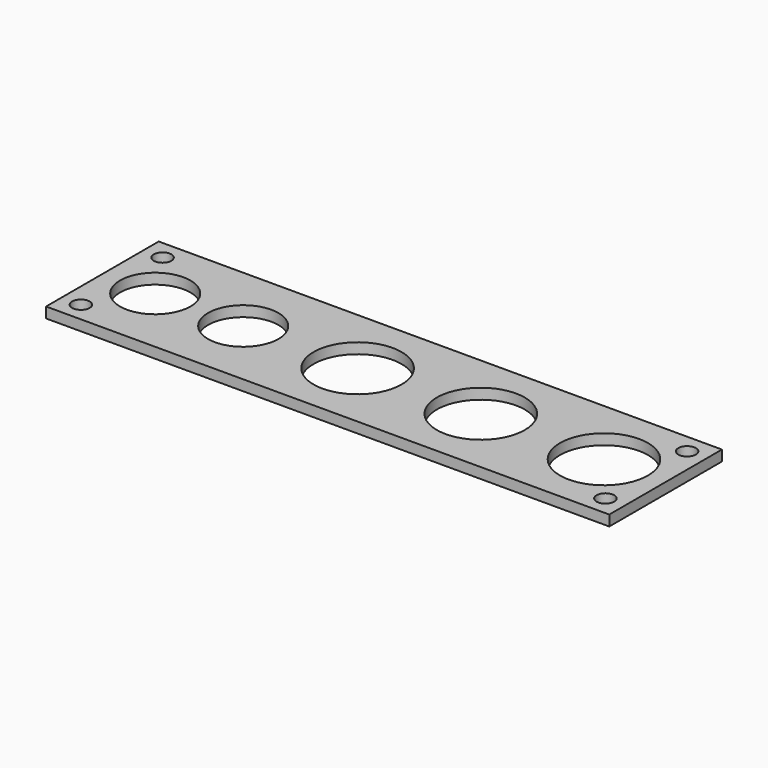
from build123d import *

# Parameters (mm, degrees)
F0_W     = 160
F0_H     = 40
F0_R     = 2.5
F0_R_2   = 10
F0_R_3   = 12.5
F1_DEPTH = 3


with BuildPart() as f1:
    # F0 (on Top) → F1 (new body)
    with BuildSketch(Plane.XY):
        Rectangle(F0_W, F0_H)
        with Locations((-74.5, -14.5)):
            Circle(F0_R, mode=Mode.SUBTRACT)
        with Locations((74.5, -14.5)):
            Circle(F0_R, mode=Mode.SUBTRACT)
        with Locations((-65, 0)):
            Circle(F0_R_2, mode=Mode.SUBTRACT)
        with Locations((-40, 0)):
            Circle(F0_R_2, mode=Mode.SUBTRACT)
        with Locations((-7.5, 0)):
            Circle(F0_R_3, mode=Mode.SUBTRACT)
        with Locations((-74.5, 14.5)):
            Circle(F0_R, mode=Mode.SUBTRACT)
        with Locations((27.5, 0)):
            Circle(F0_R_3, mode=Mode.SUBTRACT)
        with Locations((62.5, 0)):
            Circle(F0_R_3, mode=Mode.SUBTRACT)
        with Locations((74.5, 14.5)):
            Circle(F0_R, mode=Mode.SUBTRACT)
    extrude(amount=F1_DEPTH)


solid = f1.part
